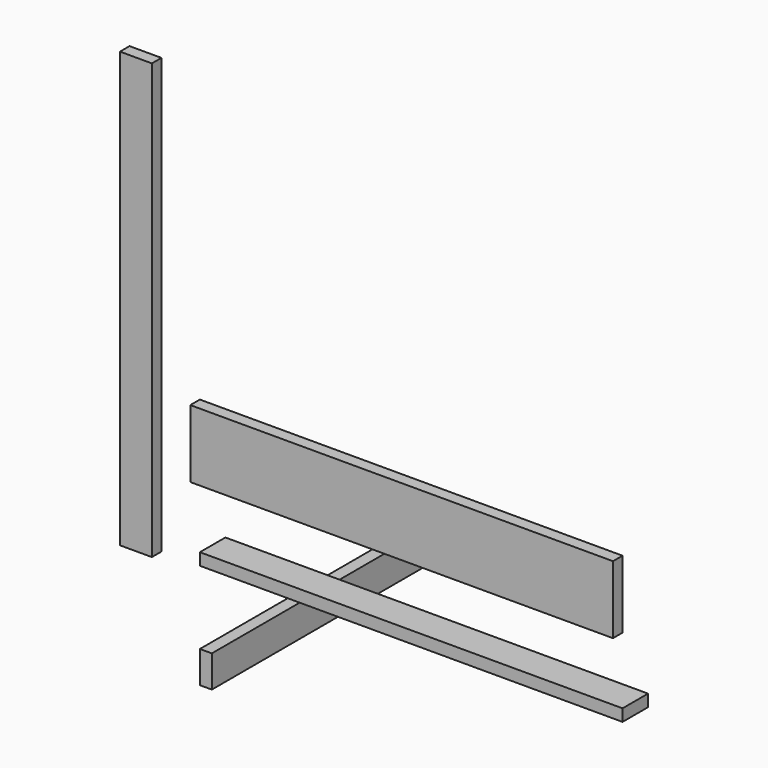
from build123d import *

# Parameters (mm, degrees)
F0_W     = 673.1
F0_H     = 50.8
F1_DEPTH = 19.05
F2_W     = 495.3
F2_H     = 50.8
F3_DEPTH = 19.05
F4_W     = 50.8
F4_H     = 692.15
F5_DEPTH = 19.05
F6_W     = 673.1
F6_H     = 107.95
F7_DEPTH = 19.05


with BuildPart() as f1:
    # F0 (on Top) → F1 (new body)
    with BuildSketch(Plane.XY):
        with Locations((336.55, 25.4)):
            Rectangle(F0_W, F0_H)
    extrude(amount=F1_DEPTH)


with BuildPart() as f3:
    # F2 (on Right) → F3 (new body)
    with BuildSketch(Plane.YZ):
        with Locations((247.65, -142.01558)):
            Rectangle(F2_W, F2_H)
    extrude(amount=F3_DEPTH)


with BuildPart() as f5:
    # F4 (on Front) → F5 (new body)
    with BuildSketch(Plane.XZ):
        with Locations((-86.619365, 346.075)):
            Rectangle(F4_W, F4_H)
    extrude(amount=F5_DEPTH)


with BuildPart() as f7:
    # F6 (on Front) → F7 (new body)
    with BuildSketch(Plane.XZ):
        with Locations((336.55, 179.079018)):
            Rectangle(F6_W, F6_H)
    extrude(amount=F7_DEPTH)


solid = Compound([f1.part, f3.part, f5.part, f7.part])
